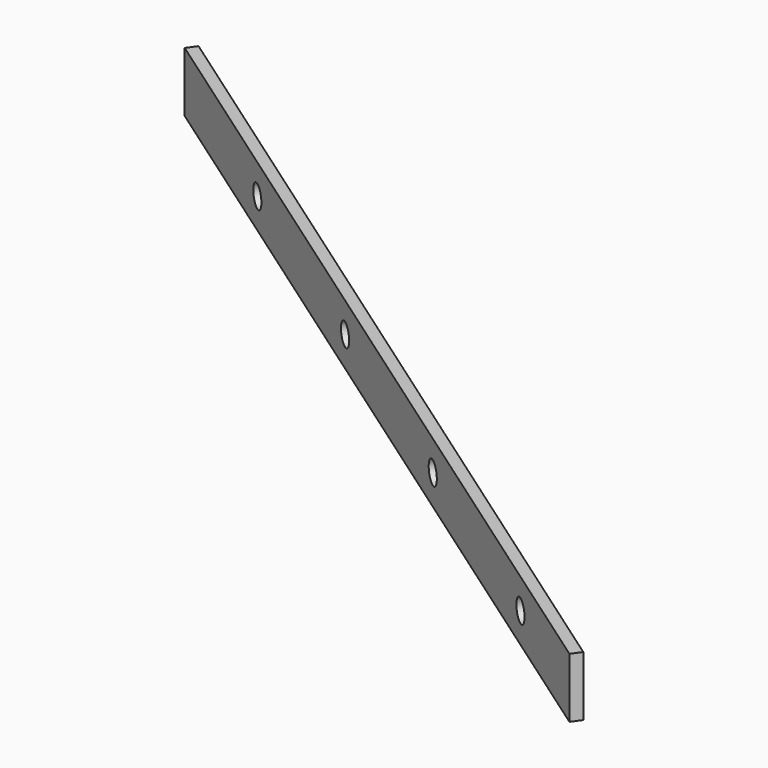
from build123d import *

# Parameters (mm, degrees)
PAD006_DEPTH           = 32
SKETCH014_R            = 6
POCKET004_DEPTH        = 273.900652
LINEARPATTERN002_COUNT = 4
LINEARPATTERN002_PITCH = 130


with BuildPart() as part:
    # Sketch013 → Pad006 (new body)
    with BuildSketch(Plane.XY):
        Polygon((-456.887332, 341.7), (10.181459, 14.654912), (6.74, 9.74), (-460.32879, 336.785088), align=None)
    extrude(amount=PAD006_DEPTH)

    # Sketch014 (on Face3 of Pad006) → Pocket004 (cut, through all)
    with BuildSketch(Plane(origin=(6.793695, 9.702402, 0), x_dir=(0.819152, -0.573576, 0), z_dir=(-0.573576, -0.819152, 0))):
        with Locations((-462.664681, 16)):
            Circle(SKETCH014_R)
    pocket004 = extrude(amount=-POCKET004_DEPTH, mode=Mode.SUBTRACT)

    # LinearPattern002: Pocket004 ×4
    with Locations(*[Vector(0.819152, -0.573576, 0) * (i * LINEARPATTERN002_PITCH) for i in range(1, LINEARPATTERN002_COUNT)]):
        add(pocket004, mode=Mode.SUBTRACT)


with BuildPart() as part_1:
    # Body005 placement: moved
    add(part.part.moved(Location((0, 0, 9))))


solid = part_1.part
